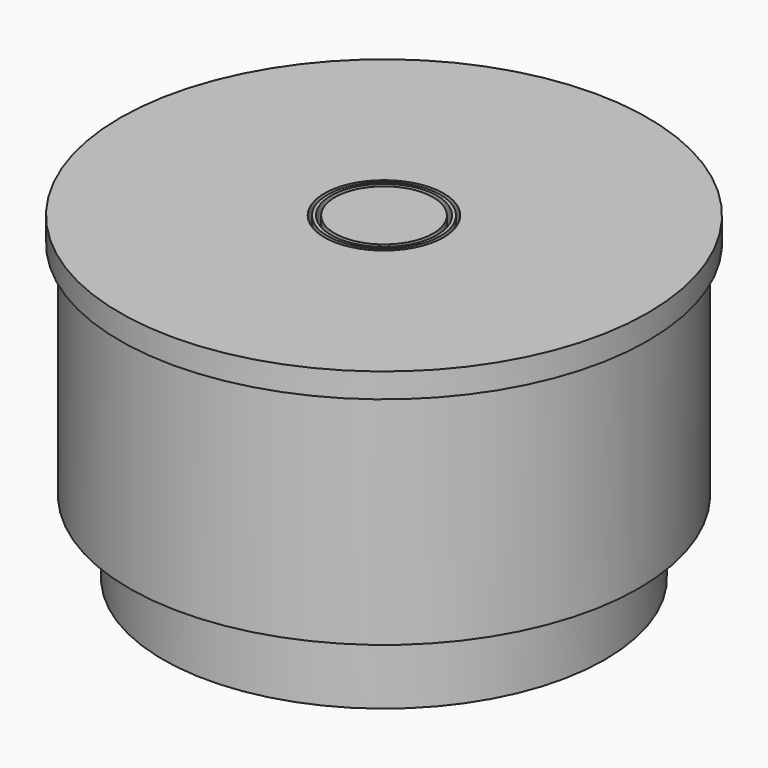
from build123d import *

# Parameters (mm, degrees)
F0_R      = 20.75
F1_DEPTH  = 20
F2_R      = 18
F3_DEPTH  = 6
F4_R      = 21.5
F5_DEPTH  = 2
F6_R      = 4.332633
F7_DEPTH  = 2
F8_R      = 16.5
F9_DEPTH  = 20
F10_R     = 4.852461
F10_R_2   = 4.579642
F11_DEPTH = 2
F12_R     = 4.001632
F13_DEPTH = 2


with BuildPart() as f1:
    # F0 (on Top) → F1 (new body)
    with BuildSketch(Plane.XY):
        Circle(F0_R)
    extrude(amount=F1_DEPTH)

    # F2 (on face) → F3 (join)
    with BuildSketch(Plane(origin=(0, 0, 0), x_dir=(1, 0, 0), z_dir=(0, 0, -1))):
        Circle(F2_R)
    extrude(amount=F3_DEPTH)

    # F4 (on face) → F5 (join)
    with BuildSketch(Plane.XY.offset(20)):
        Circle(F4_R)
    extrude(amount=-F5_DEPTH)

    # F6 (on face) → F7 (cut)
    with BuildSketch(Plane.XY.offset(20)):
        Circle(F6_R)
    extrude(amount=-F7_DEPTH, mode=Mode.SUBTRACT)

    # F8 (on face) → F9 (cut)
    with BuildSketch(Plane(origin=(0, 0, -6), x_dir=(1, 0, 0), z_dir=(0, 0, -1))):
        Circle(F8_R)
    extrude(amount=-F9_DEPTH, mode=Mode.SUBTRACT)

    # F10 (on face) → F11 (cut)
    with BuildSketch(Plane.XY.offset(20)):
        Circle(F10_R)
        Circle(F10_R_2, mode=Mode.SUBTRACT)
    extrude(amount=-F11_DEPTH, mode=Mode.SUBTRACT)

    # F12 (on face) → F13 (join)
    with BuildSketch(Plane.XY.offset(18)):
        Circle(F12_R)
    extrude(amount=F13_DEPTH)


solid = f1.part
